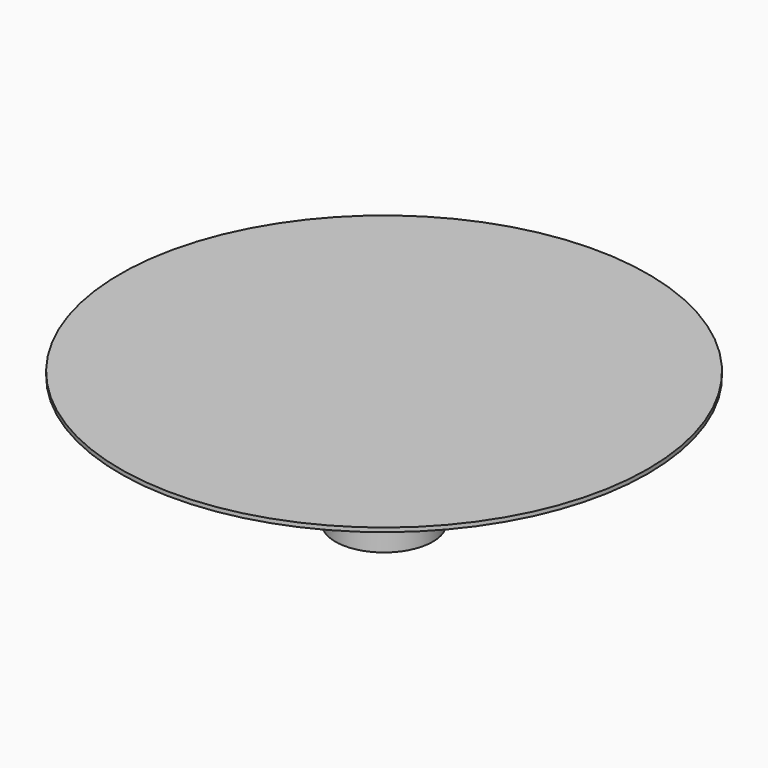
from build123d import *

# Parameters (mm, degrees)
F0_R     = 65
F1_DEPTH = 1
F3_R     = 12
F3_R_2   = 9.5
F4_DEPTH = 7
F3_R_3   = 7
F5_DEPTH = 1


with BuildPart() as f1:
    # F0 (on Top) → F1 (new body)
    with BuildSketch(Plane.XY):
        Circle(F0_R)
    extrude(amount=F1_DEPTH)


with BuildPart() as f4:
    # F3 (on offset) → F4 (new body)
    with BuildSketch(Plane.XY.offset(-25)):
        Circle(F3_R)
        Circle(F3_R_2, mode=Mode.SUBTRACT)
    extrude(amount=-F4_DEPTH)

    # F3 (on offset) → F5 (join)
    with BuildSketch(Plane.XY.offset(-25)):
        Circle(F3_R_2)
        Circle(F3_R_3, mode=Mode.SUBTRACT)
    extrude(amount=-F5_DEPTH)


solid = Compound([f1.part, f4.part])
